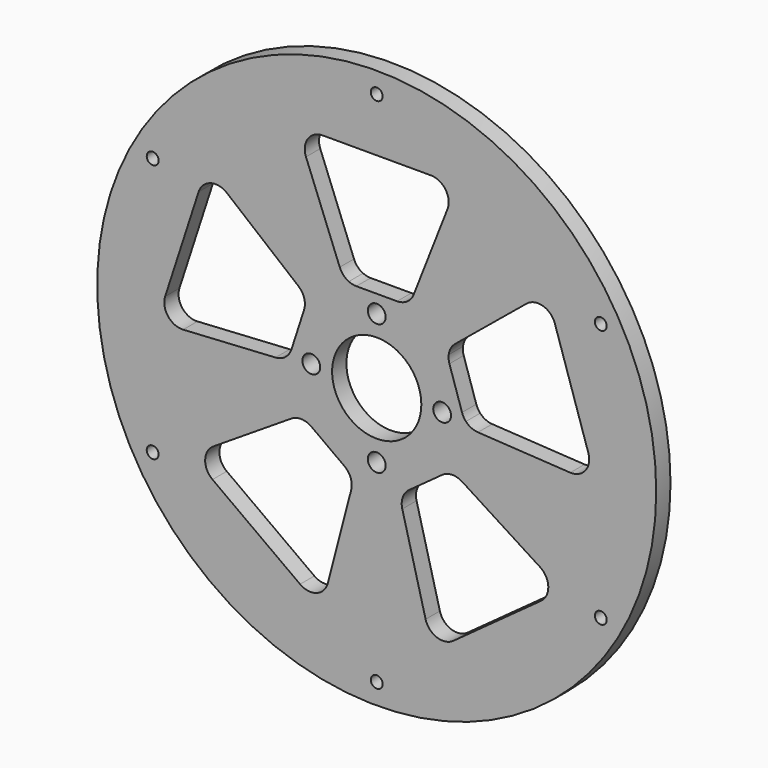
from build123d import *

# Parameters (mm, degrees)
F0_R     = 47
F0_R_2   = 7.5
F1_DEPTH = 3
F3_D     = 2
F5_D     = 3


with BuildPart() as f1:
    # F0 (on Front) → F1 (new body)
    with BuildSketch(Plane.XZ):
        Circle(F0_R)
        with BuildLine():
            ThreePointArc((13.499536, 34.44942), (30.565363, 20.850865), (37, 0))
            ThreePointArc((37, 0), (1.097165, -36.983729), (-36.934931, -2.193365))
            ThreePointArc((-36.934931, -2.193365), (-35.189091, 11.433629), (-28.591759, 23.484278))
            ThreePointArc((-28.591759, 23.484278), (-21.748054, 29.933629), (-13.499536, 34.44942))
            ThreePointArc((-13.499536, 34.44942), (-6.869187, 36.356764), (0, 37))
            ThreePointArc((0, 37), (6.869187, 36.356764), (13.499536, 34.44942))
        make_face(mode=Mode.SUBTRACT)
        with BuildLine():
            ThreePointArc((-36.934931, -2.193365), (1.097165, -36.983729), (37, 0))
            ThreePointArc((37, 0), (30.565363, 20.850865), (13.499536, 34.44942))
            ThreePointArc((13.499536, 34.44942), (6.869187, 36.356764), (0, 37))
            ThreePointArc((0, 37), (-6.869187, 36.356764), (-13.499536, 34.44942))
            ThreePointArc((-13.499536, 34.44942), (-21.748054, 29.933629), (-28.591759, 23.484278))
            ThreePointArc((-28.591759, 23.484278), (-35.189091, 11.433629), (-36.934931, -2.193365))
        make_face()
        with BuildLine():
            ThreePointArc((4.693528, 14.246782), (5.085095, 14.111761), (5.472785, 13.965981))
            ThreePointArc((5.472785, 13.965981), (8.816779, 12.135255), (11.591254, 9.520653))
            ThreePointArc((11.591254, 9.520653), (11.849702, 9.196987), (12.099115, 8.866309))
            ThreePointArc((12.099115, 8.866309), (12.447774, 9.946358), (13.172702, 10.8196))
            Line((13.172702, 10.8196), (25.193427, 20.693005))
            ThreePointArc((25.193427, 20.693005), (27.939595, 21.254159), (29.950727, 19.301805))
            Line((29.950727, 19.301805), (35.575964, 1.989107))
            ThreePointArc((35.575964, 1.989107), (35.096489, -0.772494), (32.544954, -1.932668))
            Line((32.544954, -1.932668), (17.016541, -1.01052))
            ThreePointArc((17.016541, -1.01052), (15.916783, -0.730155), (14.999875, -0.061313))
            ThreePointArc((14.999875, -0.061313), (14.265848, -4.635255), (12.171193, -8.767102))
            ThreePointArc((12.171193, -8.767102), (13.306123, -8.764943), (14.360639, -9.184544))
            Line((14.360639, -9.184544), (27.465415, -17.565883))
            ThreePointArc((27.465415, -17.565883), (28.847716, -20.004238), (27.612391, -22.520248))
            Line((27.612391, -22.520248), (12.885331, -33.220084))
            ThreePointArc((12.885331, -33.220084), (10.110726, -33.617458), (8.218867, -31.549318))
            Line((8.218867, -31.549318), (4.297339, -16.49596))
            ThreePointArc((4.297339, -16.49596), (4.224138, -15.363391), (4.576904, -14.284675))
            ThreePointArc((4.576904, -14.284675), (0, -15), (-4.576904, -14.284675))
            ThreePointArc((-4.576904, -14.284675), (-4.224138, -15.363391), (-4.297339, -16.49596))
            Line((-4.297339, -16.49596), (-8.218867, -31.549318))
            ThreePointArc((-8.218867, -31.549318), (-10.110726, -33.617458), (-12.885331, -33.220084))
            Line((-12.885331, -33.220084), (-27.612391, -22.520248))
            ThreePointArc((-27.612391, -22.520248), (-28.847716, -20.004238), (-27.465415, -17.565883))
            Line((-27.465415, -17.565883), (-14.360639, -9.184544))
            ThreePointArc((-14.360639, -9.184544), (-13.306123, -8.764943), (-12.171193, -8.767102))
            ThreePointArc((-12.171193, -8.767102), (-14.132429, -5.02737), (-14.973621, -0.889202))
            ThreePointArc((-14.973621, -0.889202), (-14.992463, -0.475439), (-14.999875, -0.061313))
            ThreePointArc((-14.999875, -0.061313), (-15.916783, -0.730155), (-17.016541, -1.01052))
            Line((-17.016541, -1.01052), (-32.544954, -1.932668))
            ThreePointArc((-32.544954, -1.932668), (-35.096489, -0.772494), (-35.575964, 1.989107))
            Line((-35.575964, 1.989107), (-29.950727, 19.301805))
            ThreePointArc((-29.950727, 19.301805), (-27.939595, 21.254159), (-25.193427, 20.693005))
            Line((-25.193427, 20.693005), (-13.172702, 10.8196))
            ThreePointArc((-13.172702, 10.8196), (-12.447774, 9.946358), (-12.099115, 8.866309))
            ThreePointArc((-12.099115, 8.866309), (-9.148474, 11.887196), (-5.472785, 13.965981))
            ThreePointArc((-5.472785, 13.965981), (-5.085095, 14.111761), (-4.693528, 14.246782))
            ThreePointArc((-4.693528, 14.246782), (-5.612975, 14.91213), (-6.219462, 15.871424))
            Line((-6.219462, 15.871424), (-11.89502, 30.354863))
            ThreePointArc((-11.89502, 30.354863), (-11.580097, 33.140031), (-9.101824, 34.44942))
            Line((-9.101824, 34.44942), (9.101824, 34.44942))
            ThreePointArc((9.101824, 34.44942), (11.580097, 33.140031), (11.89502, 30.354863))
            Line((11.89502, 30.354863), (6.219462, 15.871424))
            ThreePointArc((6.219462, 15.871424), (5.612975, 14.91213), (4.693528, 14.246782))
        make_face(mode=Mode.SUBTRACT)
        with BuildLine():
            ThreePointArc((11.591254, 9.520653), (8.816779, 12.135255), (5.472785, 13.965981))
            ThreePointArc((5.472785, 13.965981), (5.085095, 14.111761), (4.693528, 14.246782))
            ThreePointArc((4.693528, 14.246782), (4.075266, 14.037022), (3.426266, 13.965981))
            Line((3.426266, 13.965981), (-3.426266, 13.965981))
            ThreePointArc((-3.426266, 13.965981), (-4.075266, 14.037022), (-4.693528, 14.246782))
            ThreePointArc((-4.693528, 14.246782), (-5.085095, 14.111761), (-5.472785, 13.965981))
            ThreePointArc((-5.472785, 13.965981), (-9.148474, 11.887196), (-12.099115, 8.866309))
            ThreePointArc((-12.099115, 8.866309), (-12.090675, 8.213486), (-12.223663, 7.574298))
            Line((-12.223663, 7.574298), (-14.341212, 1.057153))
            ThreePointArc((-14.341212, 1.057153), (-14.609328, 0.46187), (-14.999875, -0.061313))
            ThreePointArc((-14.999875, -0.061313), (-14.992463, -0.475439), (-14.973621, -0.889202))
            ThreePointArc((-14.973621, -0.889202), (-14.132429, -5.02737), (-12.171193, -8.767102))
            ThreePointArc((-12.171193, -8.767102), (-11.547714, -8.960809), (-10.980905, -9.284808))
            Line((-10.980905, -9.284808), (-5.437091, -13.312624))
            ThreePointArc((-5.437091, -13.312624), (-4.953796, -13.751571), (-4.576904, -14.284675))
            ThreePointArc((-4.576904, -14.284675), (0, -15), (4.576904, -14.284675))
            ThreePointArc((4.576904, -14.284675), (4.953796, -13.751571), (5.437091, -13.312624))
            Line((5.437091, -13.312624), (10.980905, -9.284808))
            ThreePointArc((10.980905, -9.284808), (11.547714, -8.960809), (12.171193, -8.767102))
            ThreePointArc((12.171193, -8.767102), (14.265848, -4.635255), (14.999875, -0.061313))
            ThreePointArc((14.999875, -0.061313), (14.609328, 0.46187), (14.341212, 1.057153))
            Line((14.341212, 1.057153), (12.223663, 7.574298))
            ThreePointArc((12.223663, 7.574298), (12.090675, 8.213486), (12.099115, 8.866309))
            ThreePointArc((12.099115, 8.866309), (11.849702, 9.196987), (11.591254, 9.520653))
        make_face()
        Circle(F0_R_2, mode=Mode.SUBTRACT)
    extrude(amount=F1_DEPTH)

    # F3 (through all)
    with Locations(Plane.XZ.offset(3)):
        with Locations((37.672105, 21.75), (37.672105, -21.75), (0, -43.5), (-37.672105, -21.75), (-37.672105, 21.75), (0, 43.5)):
            Hole(F3_D / 2)

    # F5 (through all)
    with Locations(Plane(origin=(0, 0, 0), x_dir=(1, 0, 0), z_dir=(0, 1, 0))):
        with Locations((0, 11), (11, 0), (0, -11), (-11, 0)):
            Hole(F5_D / 2)


solid = f1.part
